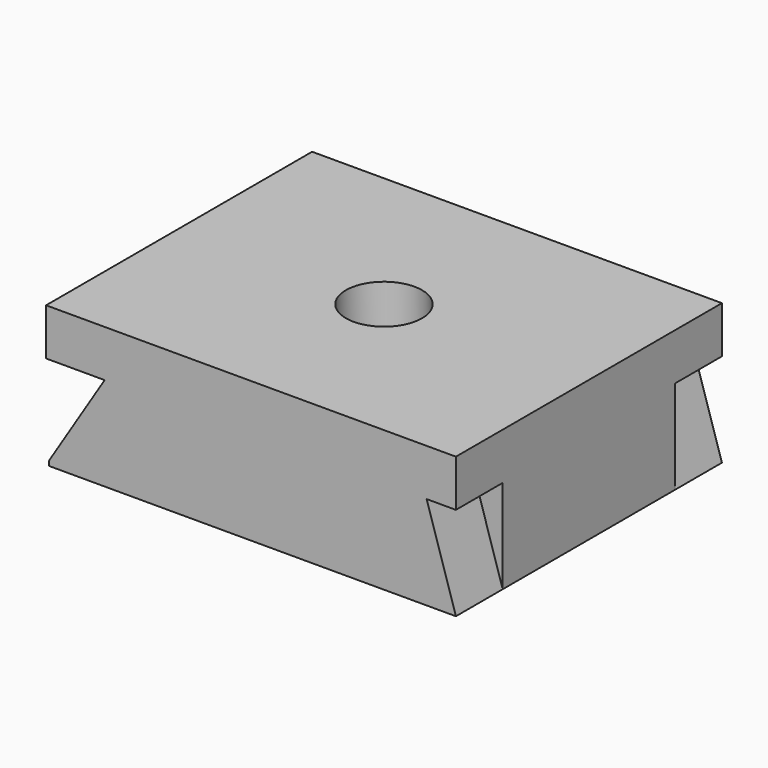
from build123d import *

# Parameters (mm, degrees)
F0_W      = 35
F0_H      = 28.4
F1_DEPTH  = 12
F3_DEPTH  = 5
F5_DEPTH  = 5
F7_DEPTH  = 36.3
F8_W      = 24
F8_H      = 20
F9_DEPTH  = 8.5
F10_R     = 3.25
F11_DEPTH = 25
F13_DEPTH = 28.4


with BuildPart() as f1:
    # F0 (on Top) → F1 (new body)
    with BuildSketch(Plane.XY):
        Rectangle(F0_W, F0_H)
    extrude(amount=F1_DEPTH)

    # F2 (on face) → F3 (cut)
    with BuildSketch(Plane.XZ.offset(14.2)):
        Polygon((15, 8), (17.5, 0), (17.5, 8), align=None)
    extrude(amount=-F3_DEPTH, mode=Mode.SUBTRACT)

    # F4 (on face) → F5 (cut)
    with BuildSketch(Plane(origin=(0, 14.2, 0), x_dir=(-1, 0, 0), z_dir=(0, 1, 0))):
        Polygon((-15, 8), (-17.5, 8), (-17.5, 0), align=None)
    extrude(amount=-F5_DEPTH, mode=Mode.SUBTRACT)

    # F6 (on face) → F7 (cut)
    with BuildSketch(Plane(origin=(0, 14.2, 0), x_dir=(-1, 0, 0), z_dir=(0, 1, 0))):
        Polygon((12.5, 8), (17.5, 0), (17.5, 8), align=None)
    extrude(amount=-F7_DEPTH, mode=Mode.SUBTRACT)

    # F8 (on face) → F9 (cut)
    with BuildSketch(Plane(origin=(0, 0, 0), x_dir=(1, 0, 0), z_dir=(0, 0, -1))):
        Rectangle(F8_W, F8_H)
    extrude(amount=-F9_DEPTH, mode=Mode.SUBTRACT)

    # F10 (on face) → F11 (cut)
    with BuildSketch(Plane(origin=(0, 0, 8.5), x_dir=(1, 0, 0), z_dir=(0, 0, -1))):
        Circle(F10_R)
    extrude(amount=-F11_DEPTH, mode=Mode.SUBTRACT)

    # F12 (on face) → F13 (cut, through all)
    with BuildSketch(Plane(origin=(0, 14.2, 0), x_dir=(-1, 0, 0), z_dir=(0, 1, 0))):
        Polygon((17.25, 0), (17.5, 0), (17.25, 0.4), align=None)
    extrude(amount=-F13_DEPTH, mode=Mode.SUBTRACT)


solid = f1.part
